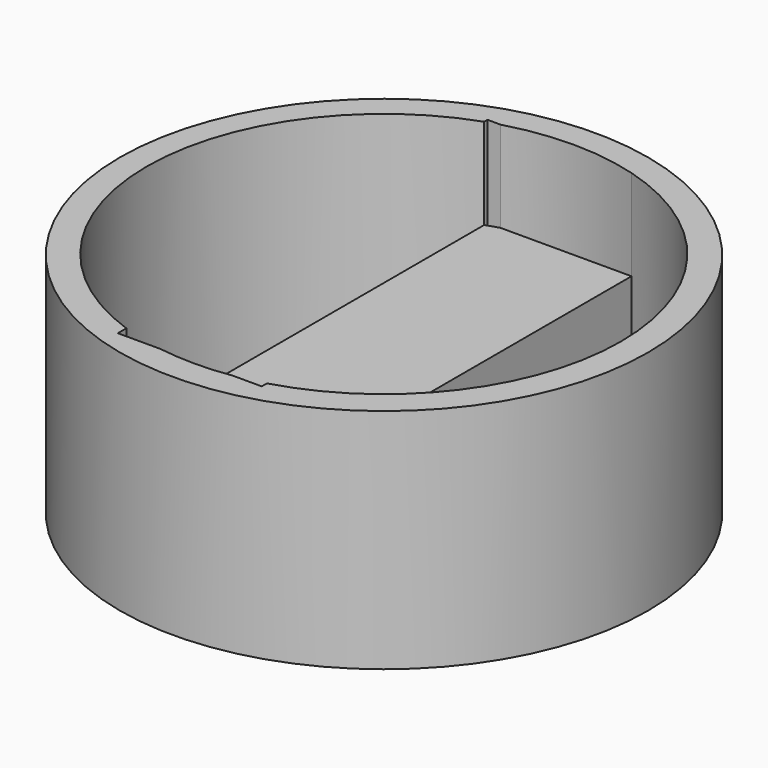
from build123d import *

# Parameters (mm, degrees)
F1_DEPTH = 18
F0_R     = 34.8613317239
F2_DEPTH = 30


with BuildPart() as f1:
    # F0 (on Top) → F1 (new body)
    with BuildSketch(Plane.XY):
        with BuildLine():
            Line((8.492070318, -29.9321661628), (8.492070318, 30.2154395654))
            Line((8.492070318, 30.2154395654), (-8.7753489302, 30.2154395654))
            ThreePointArc((-8.7753489302, 30.2154395654), (-9.6456531997, 29.9518410027), (-10.507929682, 29.6630625548))
            Line((-10.507929682, 29.6630625548), (-10.507929682, -29.3797891522))
            ThreePointArc((-10.507929682, -29.3797891522), (-7.731428039, -30.212434979), (-4.8897853962, -30.7845604346))
            Line((-4.8897853962, -30.7845604346), (4.606506784, -30.7845604346))
            ThreePointArc((4.606506784, -30.7845604346), (6.5628487122, -30.4201760884), (8.492070318, -29.9321661628))
        make_face()
    extrude(amount=F1_DEPTH)


with BuildPart() as f2:
    # F0 (on Top) → F2 (new body)
    with BuildSketch(Plane.XY):
        Circle(F0_R)
        with BuildLine():
            ThreePointArc((-8.7753489302, 30.2154395654), (-0.1416393061, 31.4302058693), (8.492070318, 30.2154395654))
            ThreePointArc((8.492070318, 30.2154395654), (24.849468926, 18.9676577869), (31.1469298619, 0.1416367013))
            ThreePointArc((31.1469298619, 0.1416367013), (24.849468926, -18.6843843843), (8.492070318, -29.9321661628))
            Line((8.492070318, -29.9321661628), (8.492070318, -30.7845604346))
            Line((8.492070318, -30.7845604346), (4.606506784, -30.7845604346))
            ThreePointArc((4.606506784, -30.7845604346), (-0.1416393061, -31.1469324667), (-4.8897853962, -30.7845604346))
            Line((-4.8897853962, -30.7845604346), (-10.507929682, -30.7845604346))
            Line((-10.507929682, -30.7845604346), (-10.507929682, -29.3797891522))
            ThreePointArc((-10.507929682, -29.3797891522), (-31.4302084741, 0.1416367013), (-10.507929682, 29.6630625548))
            Line((-10.507929682, 29.6630625548), (-10.507929682, 30.2154395654))
            Line((-10.507929682, 30.2154395654), (-8.7753489302, 30.2154395654))
        make_face(mode=Mode.SUBTRACT)
    extrude(amount=F2_DEPTH)


solid = Compound([f1.part, f2.part])
